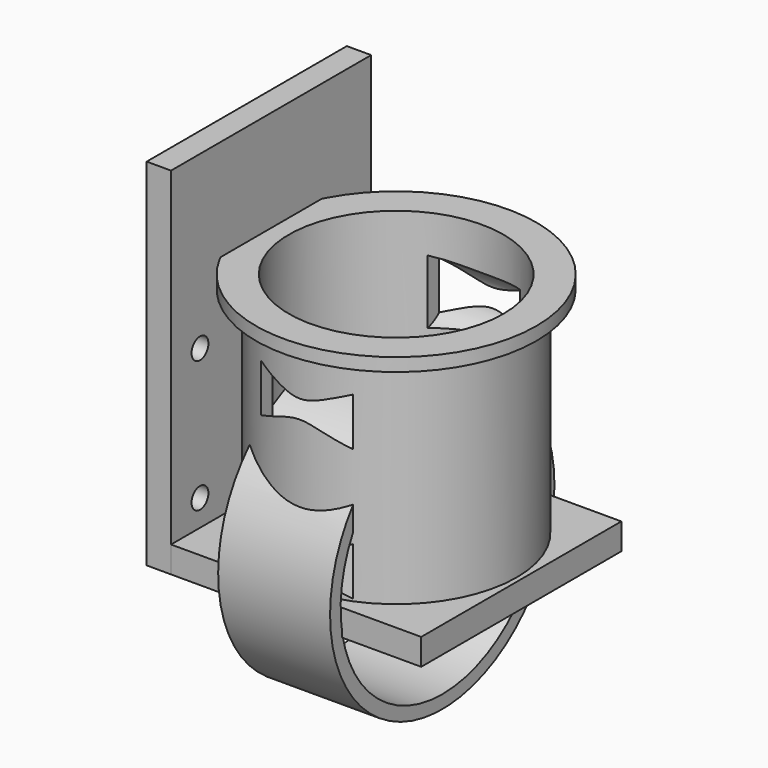
from build123d import *

# Parameters (mm, degrees)
SKETCH002_R     = 18.3
SKETCH002_R_2   = 16.3
PAD002_DEPTH    = 33.6
SKETCH003_R     = 5
POCKET_DEPTH    = 7
SKETCH005_R     = 21.3
SKETCH005_R_2   = 16.3
PAD003_DEPTH    = 1
SKETCH006_R     = 21.3
SKETCH006_R_2   = 19.3
PAD006_DEPTH    = 17
SKETCH_W        = 38
SKETCH_H        = 38
SKETCH_R        = 6
SKETCH_R_2      = 2.2
PAD_DEPTH       = 4
SKETCH001_W     = 3.7
SKETCH001_H     = 38
PAD001_DEPTH    = 50
PAD005_DEPTH    = 4
SKETCH004_R     = 1.6
POCKET002_DEPTH = 3.701


with BuildPart() as obj1:
    # Sketch002 → Pad002 (new body)
    with BuildSketch(Plane.XY):
        Circle(SKETCH002_R)
        Circle(SKETCH002_R_2, mode=Mode.SUBTRACT)
    extrude(amount=PAD002_DEPTH)

    # Sketch003 → Pocket (cut, symmetric)
    with BuildSketch(Plane.YZ):
        with Locations((13.5, 4)):
            Circle(SKETCH003_R)
        with Locations((-13.5, 4)):
            Circle(SKETCH003_R)
        with Locations((13.5, 24)):
            Circle(SKETCH003_R)
        with Locations((-13.5, 24)):
            Circle(SKETCH003_R)
    extrude(amount=POCKET_DEPTH, both=True, mode=Mode.SUBTRACT)

    # Sketch005 (on Face3 of Pocket) → Pad003 (join, symmetric)
    with BuildSketch(Plane.XY.offset(33.6)):
        Circle(SKETCH005_R)
        Circle(SKETCH005_R_2, mode=Mode.SUBTRACT)
    extrude(amount=PAD003_DEPTH, both=True)

    # Sketch006 (on Face11 of Pad003) → Pad006 (join)
    with BuildSketch(Plane(origin=(7, 0, 0), x_dir=(0, -1, 0), z_dir=(-1, 0, 0))):
        Circle(SKETCH006_R)
        Circle(SKETCH006_R_2, mode=Mode.SUBTRACT)
    extrude(amount=PAD006_DEPTH)


with BuildPart() as obj2:
    # Sketch → Pad (new body)
    with BuildSketch(Plane.XY):
        Rectangle(SKETCH_W, SKETCH_H)
        Circle(SKETCH_R, mode=Mode.SUBTRACT)
        with Locations((8.179756, 7.820244)):
            Circle(SKETCH_R_2, mode=Mode.SUBTRACT)
        with Locations((7.820244, -8.179756)):
            Circle(SKETCH_R_2, mode=Mode.SUBTRACT)
        with Locations((-7.820244, 8.179756)):
            Circle(SKETCH_R_2, mode=Mode.SUBTRACT)
        with Locations((-8.179756, -7.820244)):
            Circle(SKETCH_R_2, mode=Mode.SUBTRACT)
    extrude(amount=-PAD_DEPTH)


with BuildPart() as obj3:
    # Sketch001 → Pad001 (new body)
    with BuildSketch(Plane.XY):
        with Locations((-20.85, 0)):
            Rectangle(SKETCH001_W, SKETCH001_H)
    extrude(amount=PAD001_DEPTH)

    # Sketch001 → Pad005 (join)
    with BuildSketch(Plane.XY):
        with Locations((-20.85, 0)):
            Rectangle(SKETCH001_W, SKETCH001_H)
    extrude(amount=-PAD005_DEPTH)

    # Sketch004 (on Face15 of Pad001) → Pocket002 (cut, through all)
    with BuildSketch(Plane.YZ.offset(-19)):
        with Locations((13.5, 4)):
            Circle(SKETCH004_R)
        with Locations((-13.5, 4)):
            Circle(SKETCH004_R)
        with Locations((-13.5, 24)):
            Circle(SKETCH004_R)
        with Locations((13.5, 24)):
            Circle(SKETCH004_R)
    extrude(amount=-POCKET002_DEPTH, mode=Mode.SUBTRACT)


solid = Compound([obj1.part, obj2.part, obj3.part])
